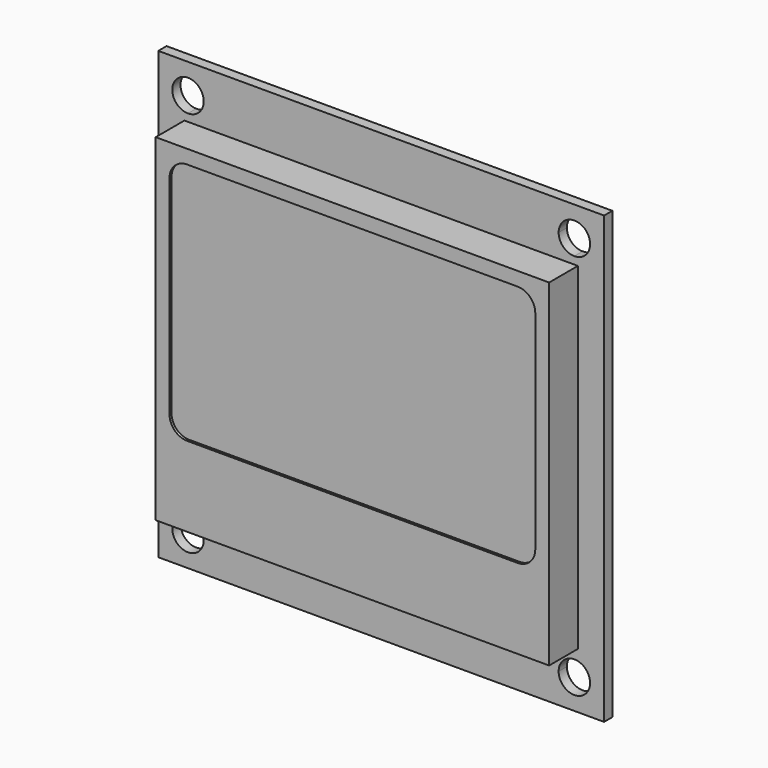
from build123d import *

# Parameters (mm, degrees)
F0_W     = 45
F0_H     = 45
F1_DEPTH = 1.0414
F2_DEPTH = 4.6736
F4_DEPTH = 0.254


with BuildPart() as f1:
    # F0 (on Front) → F1 (new body)
    with BuildSketch(Plane.XZ):
        with Locations((-95.2571389369, 31.5730149047)):
            Rectangle(F0_W, F0_H)
        with BuildLine():
            ThreePointArc((-114.7571389369, 49.4855149047), (-115.879670952, 52.1955469198), (-113.1696389369, 51.0730149047))
            Line((-113.1696389369, 51.0730149047), (-77.3446389369, 51.0730149047))
            ThreePointArc((-77.3446389369, 51.0730149047), (-75.7571389369, 52.6605149047), (-74.1696389369, 51.0730149047))
            ThreePointArc((-74.1696389369, 51.0730149047), (-74.6346069217, 49.9504828895), (-75.7571389369, 49.4855149047))
            Line((-75.7571389369, 49.4855149047), (-75.7571389369, 48.7390149047))
            Line((-75.7571389369, 48.7390149047), (-75.3987389369, 48.7390149047))
            Line((-75.3987389369, 48.7390149047), (-75.3987389369, 14.7030149047))
            Line((-75.3987389369, 14.7030149047), (-75.7571389369, 14.7030149047))
            Line((-75.7571389369, 14.7030149047), (-75.7571389369, 13.6605149047))
            ThreePointArc((-75.7571389369, 13.6605149047), (-74.6346069217, 13.1955469198), (-74.1696389369, 12.0730149047))
            ThreePointArc((-74.1696389369, 12.0730149047), (-75.7571389369, 10.4855149047), (-77.3446389369, 12.0730149047))
            Line((-77.3446389369, 12.0730149047), (-113.1696389369, 12.0730149047))
            ThreePointArc((-113.1696389369, 12.0730149047), (-115.879670952, 10.9504828895), (-114.7571389369, 13.6605149047))
            Line((-114.7571389369, 13.6605149047), (-114.7571389369, 14.7030149047))
            Line((-114.7571389369, 14.7030149047), (-115.1155389369, 14.7030149047))
            Line((-115.1155389369, 14.7030149047), (-115.1155389369, 48.7390149047))
            Line((-115.1155389369, 48.7390149047), (-114.7571389369, 48.7390149047))
            Line((-114.7571389369, 48.7390149047), (-114.7571389369, 49.4855149047))
        make_face(mode=Mode.SUBTRACT)
        with BuildLine():
            Line((-77.3446389369, 51.0730149047), (-113.1696389369, 51.0730149047))
            ThreePointArc((-113.1696389369, 51.0730149047), (-113.6346069217, 49.9504828895), (-114.7571389369, 49.4855149047))
            Line((-114.7571389369, 49.4855149047), (-114.7571389369, 48.7390149047))
            Line((-114.7571389369, 48.7390149047), (-75.7571389369, 48.7390149047))
            Line((-75.7571389369, 48.7390149047), (-75.7571389369, 49.4855149047))
            ThreePointArc((-75.7571389369, 49.4855149047), (-76.879670952, 49.9504828895), (-77.3446389369, 51.0730149047))
        make_face()
        with BuildLine():
            Line((-75.7571389369, 14.7030149047), (-114.7571389369, 14.7030149047))
            Line((-114.7571389369, 14.7030149047), (-114.7571389369, 13.6605149047))
            ThreePointArc((-114.7571389369, 13.6605149047), (-113.6346069217, 13.1955469198), (-113.1696389369, 12.0730149047))
            Line((-113.1696389369, 12.0730149047), (-77.3446389369, 12.0730149047))
            ThreePointArc((-77.3446389369, 12.0730149047), (-76.879670952, 13.1955469198), (-75.7571389369, 13.6605149047))
            Line((-75.7571389369, 13.6605149047), (-75.7571389369, 14.7030149047))
        make_face()
    extrude(amount=F1_DEPTH)

    # F0 (on Front) → F2 (join)
    with BuildSketch(Plane.XZ):
        Polygon((-75.7571389369, 48.7390149047), (-114.7571389369, 48.7390149047), (-115.1155389369, 48.7390149047), (-115.1155389369, 14.7030149047), (-114.7571389369, 14.7030149047), (-75.7571389369, 14.7030149047), (-75.3987389369, 14.7030149047), (-75.3987389369, 48.7390149047), align=None)
    extrude(amount=F2_DEPTH)

    # F3 (on face) → F4 (cut)
    with BuildSketch(Plane.XZ.offset(4.6736)):
        with BuildLine():
            Line((-78.5737389369, 47.3420149047), (-111.9405389369, 47.3420149047))
            ThreePointArc((-111.9405389369, 47.3420149047), (-113.1977747938, 46.8212507616), (-113.7185389369, 45.5640149047))
            Line((-113.7185389369, 45.5640149047), (-113.7185389369, 24.5582149047))
            ThreePointArc((-113.7185389369, 24.5582149047), (-113.1977747938, 23.3009790477), (-111.9405389369, 22.7802149047))
            Line((-111.9405389369, 22.7802149047), (-78.5737389369, 22.7802149047))
            ThreePointArc((-78.5737389369, 22.7802149047), (-77.3165030799, 23.3009790477), (-76.7957389369, 24.5582149047))
            Line((-76.7957389369, 24.5582149047), (-76.7957389369, 45.5640149047))
            ThreePointArc((-76.7957389369, 45.5640149047), (-77.3165030799, 46.8212507616), (-78.5737389369, 47.3420149047))
        make_face()
    extrude(amount=-F4_DEPTH, mode=Mode.SUBTRACT)


solid = f1.part
